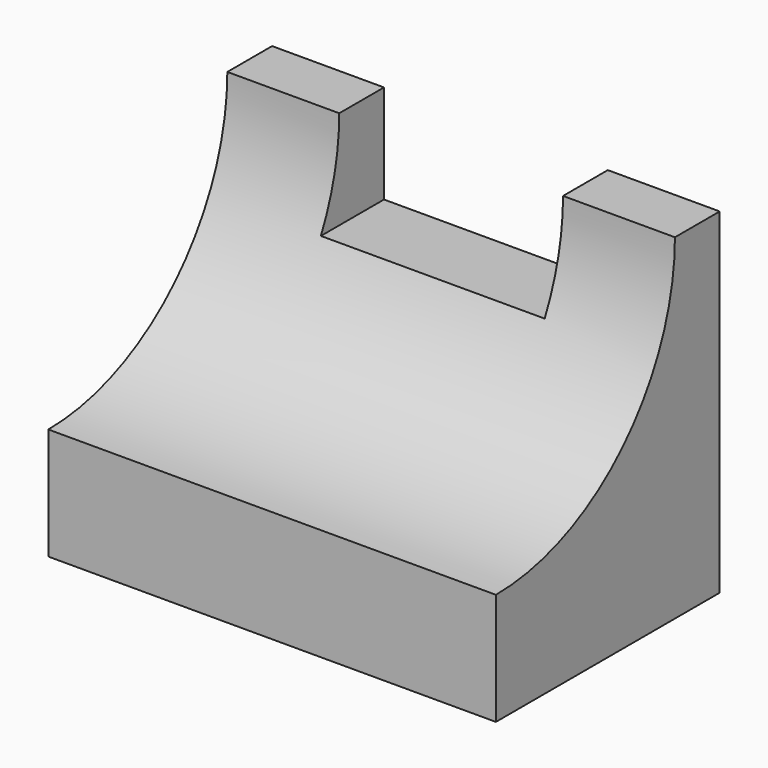
from build123d import *

# Parameters (mm, degrees)
F0_W     = 50.8
F0_H     = 38.1
F1_DEPTH = 31.75
F3_DEPTH = 50.801
F4_W     = 25.4
F4_H     = 11.23293
F5_DEPTH = 31.751


with BuildPart() as f1:
    # F0 (on Front) → F1 (new body)
    with BuildSketch(Plane.XZ):
        with Locations((-0.257215, 19.05)):
            Rectangle(F0_W, F0_H)
    extrude(amount=F1_DEPTH)

    # F2 (on face) → F3 (cut, through all)
    with BuildSketch(Plane.YZ.offset(25.142785)):
        with BuildLine():
            ThreePointArc((-31.75, 12.7), (-13.789488, 20.139488), (-6.35, 38.1))
            Line((-6.35, 38.1), (-31.75, 38.1))
            Line((-31.75, 38.1), (-31.75, 12.7))
        make_face()
    extrude(amount=-F3_DEPTH, mode=Mode.SUBTRACT)

    # F4 (on face) → F5 (cut, through all)
    with BuildSketch(Plane.XZ.offset(31.75)):
        with Locations((-0.257215, 32.516378)):
            Rectangle(F4_W, F4_H)
    extrude(amount=-F5_DEPTH, mode=Mode.SUBTRACT)


solid = f1.part
